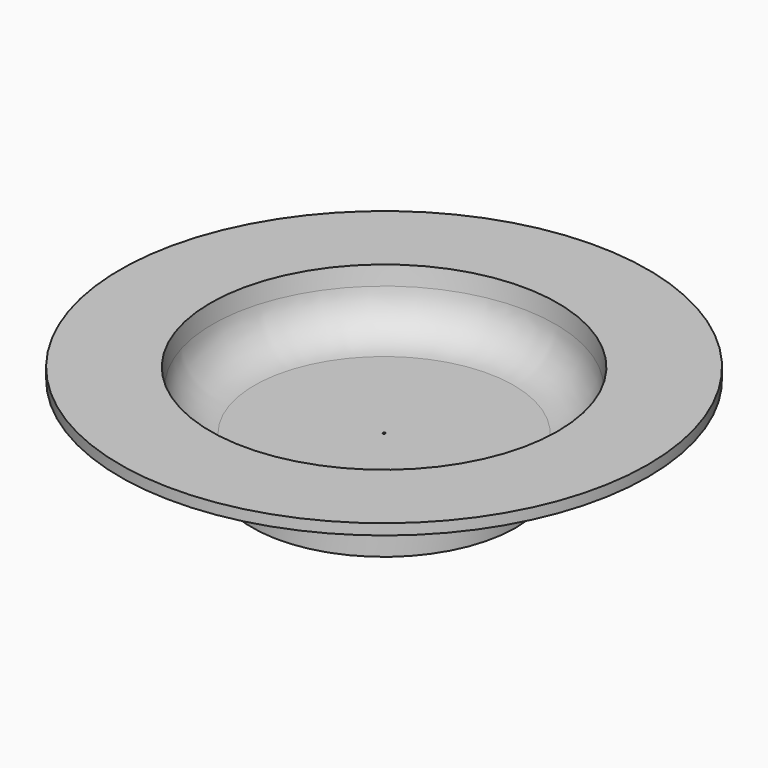
from build123d import *


with BuildPart() as f2:
    # F0 (on Front) → F2 (revolve)
    with BuildSketch(Plane.XZ):
        with BuildLine():
            Line((4.518821, 12.620625), (4.518821, 10.000005))
            Line((4.518821, 10.000005), (19.05, 10.000005))
            Line((19.05, 10.000005), (29.518821, 10.000005))
            ThreePointArc((29.518821, 10.000005), (35.170144, 12.051214), (38.19009, 17.249755))
            ThreePointArc((38.19009, 17.249755), (45.861116, 21.778923), (54.768752, 21.669377))
            Line((54.768752, 21.669377), (54.768752, 23.74019))
            Line((54.768752, 23.74019), (37.494778, 23.74019))
            Line((37.494778, 23.74019), (37.072092, 20.318295))
            ThreePointArc((37.072092, 20.318295), (34.443176, 15.055629), (29.088028, 12.620625))
            Line((29.088028, 12.620625), (4.518821, 12.620625))
        make_face()
        Polygon((29.518821, 10.000005), (19.05, 10.000005), (29.518821, 4.920005), align=None)
    revolve(axis=Axis((4.28625, 0, 15.24), (0, 0, 1)))


solid = f2.part
